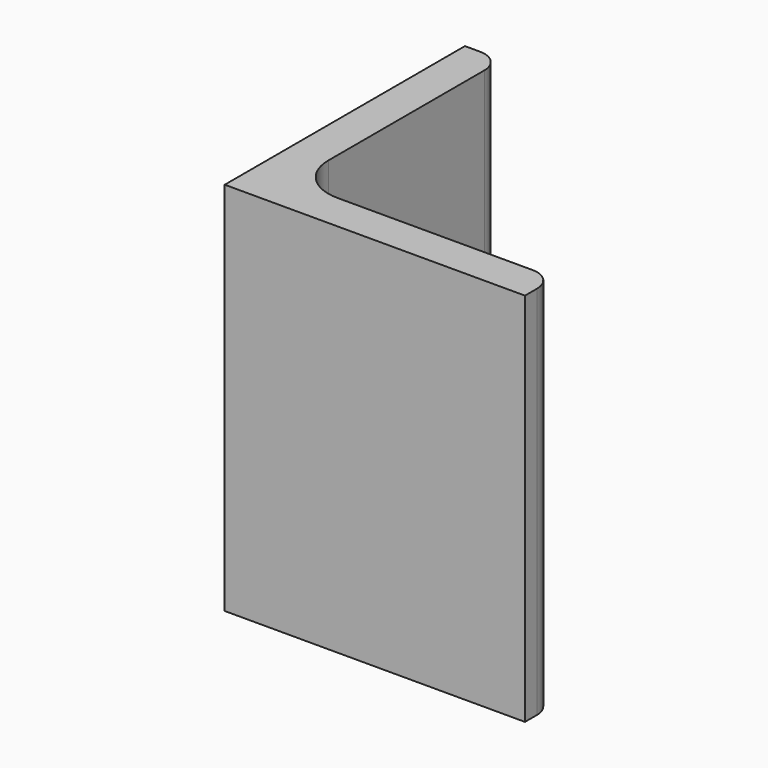
from build123d import *

# Parameters (mm, degrees)
EXTRUDE_DEPTH = 50


with BuildPart() as part:
    # Sketch → Extrude (new body)
    with BuildSketch(Plane.XY):
        with BuildLine():
            Line((0, 0), (40, 0))
            Line((40, 0), (40, 2))
            ThreePointArc((40, 2), (39.12132, 4.12132), (37, 5))
            Line((37, 5), (11, 5))
            ThreePointArc((5, 11), (6.757359, 6.757359), (11, 5))
            Line((5, 37), (5, 11))
            ThreePointArc((5, 37), (4.12132, 39.12132), (2, 40))
            Line((0, 40), (2, 40))
            Line((0, 0), (0, 40))
        make_face()
    extrude(amount=EXTRUDE_DEPTH)


solid = part.part
